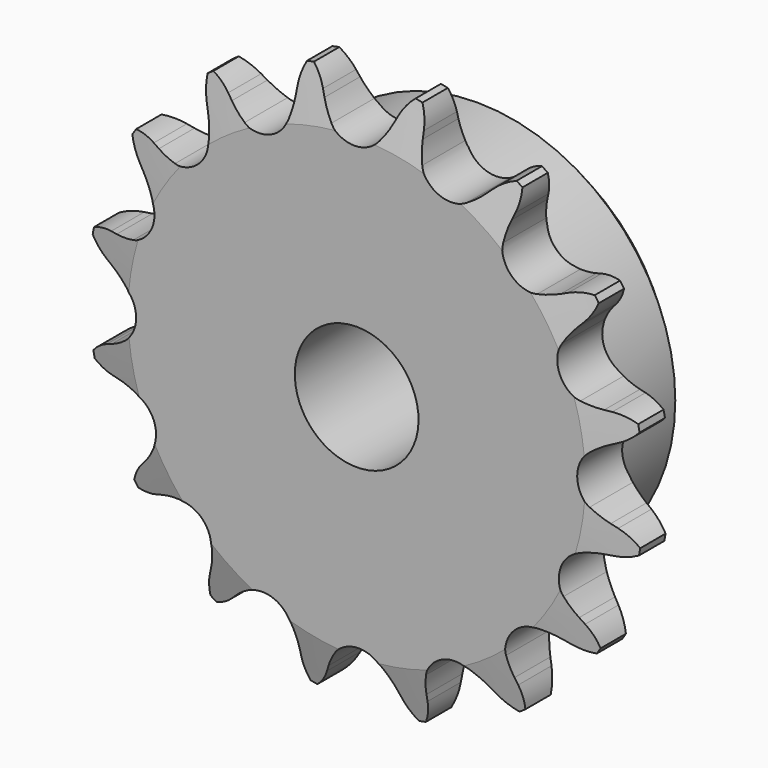
from build123d import *

# Parameters (mm, degrees)
F0_W     = 15.0114
F0_H     = 17.4625
F0_W_2   = 7.2136
F0_H_2   = 10.287
F2_R     = 2.9464
F3_SIZE  = 2.8702
F4_SIZE2 = 6.35
F4_SIZE  = 1.5748
F6_DEPTH = 25.4
F7_COUNT = 16


with BuildPart() as f1:
    # F0 (on Right) → F1 (revolve)
    with BuildSketch(Plane.YZ):
        with Locations((14.7193, 16.66875)):
            Rectangle(F0_W, F0_H)
        with Locations((3.6068, 16.66875)):
            Rectangle(F0_W_2, F0_H)
        with Locations((3.6068, 30.5435)):
            Rectangle(F0_W_2, F0_H_2)
    revolve(axis=Axis((0, 15.5904345402, 0), (0, 1, 0)))

    # F2
    f2_edges = [f1.edges().sort_by_distance(p)[0] for p in [
        (0, 7.2136, -25.4),
    ]]
    fillet(f2_edges, radius=F2_R)

    # F3
    f3_edges = [f1.edges().sort_by_distance(p)[0] for p in [
        (0, 22.225, -25.4),
    ]]
    chamfer(f3_edges, length=F3_SIZE)

    # F4
    f4_edges = [f1.edges().sort_by_distance(p)[0] for p in [
        (0, 0, -35.687),
        (0, 7.2136, -35.687),
        (0, 3.6068, 35.687),
    ]]
    f4_side = f1.faces().sort_by_distance((0, 3.6068, -35.687))[0]
    chamfer(f4_edges, length=F4_SIZE, length2=F4_SIZE2, reference=f4_side)

    # F5 (on Front) → F6 (cut)
    with BuildSketch(Plane.XZ):
        with BuildLine():
            ThreePointArc((-29.9857099772, 19.9738537188), (-28.3653359404, 19.9860757775), (-26.7909464145, 19.6025930286))
            Line((-26.7909464145, 19.6025930286), (-25.9723646077, 19.2924601249))
            ThreePointArc((-25.9723646077, 19.2924601249), (-24.7200167174, 18.9065893708), (-23.4289849202, 18.6818486856))
            ThreePointArc((-23.4289849202, 18.6818486856), (-20.1957709055, 19.8188576104), (-19.0587619807, 23.0520716251))
            ThreePointArc((-19.0587619807, 23.0520716251), (-19.2835026659, 24.3431034223), (-19.6693734199, 25.5954513126))
            Line((-19.6693734199, 25.5954513126), (-19.9795063237, 26.4140331194))
            ThreePointArc((-19.9795063237, 26.4140331194), (-20.3629890726, 27.9884226453), (-20.3507670139, 29.6087966821))
            Line((-20.3507670139, 29.6087966821), (-25.9212702513, 26.3414625078))
            Line((-25.9212702513, 26.3414625078), (-29.9857099772, 19.9738537188))
        make_face()
    f6 = extrude(amount=-F6_DEPTH, mode=Mode.SUBTRACT)

    # F7: F6 ×16 about axis
    f7_axis = Axis((0, 7.2136, 0), (0, -1, 0))
    for i in range(1, F7_COUNT):
        add(f6.rotate(f7_axis, i * 360 / F7_COUNT), mode=Mode.SUBTRACT)


solid = f1.part
